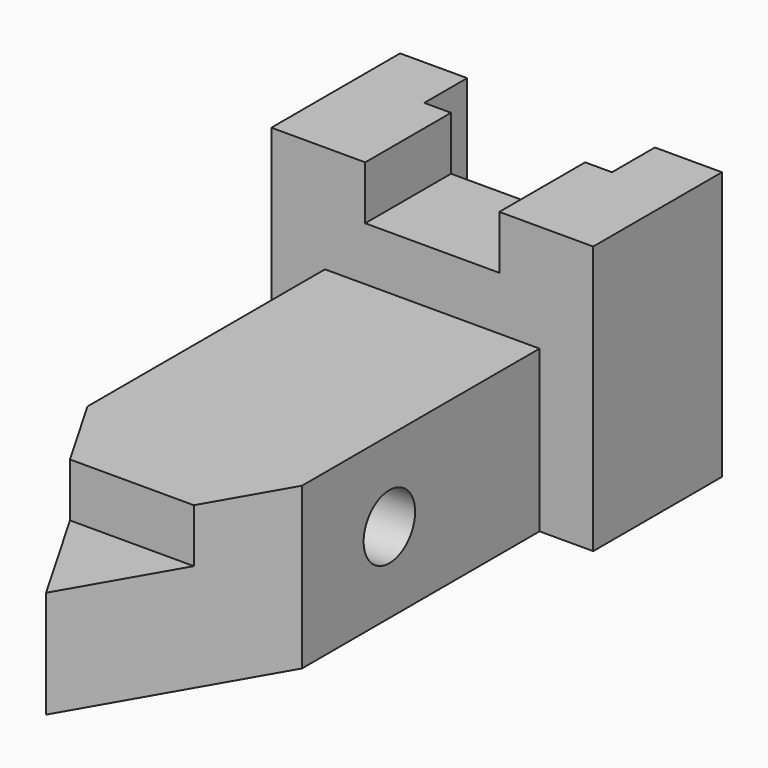
from build123d import *

# Parameters (mm, degrees)
SKETCH_W        = 60
SKETCH_H        = 50
PAD_DEPTH       = 30
SKETCH001_W     = 40
SKETCH001_H     = 30
PAD001_DEPTH    = 90
SKETCH002_W     = 35
SKETCH002_H     = 10
POCKET_DEPTH    = 50.001
SKETCH003_W     = 25
SKETCH003_H     = 26.623343
POCKET001_DEPTH = 10
SKETCH004_R     = 6
POCKET002_DEPTH = 50.001
POCKET003_DEPTH = 30.001
SKETCH006_W     = 62.083085
SKETCH006_H     = 25.997551
POCKET004_DEPTH = 10


with BuildPart() as part:
    # Sketch → Pad (new body)
    with BuildSketch(Plane.XZ):
        with Locations((0, 25)):
            Rectangle(SKETCH_W, SKETCH_H)
    extrude(amount=PAD_DEPTH)

    # Sketch001 → Pad001 (new body)
    with BuildSketch(Plane.XZ.offset(30)):
        with Locations((0, 15)):
            Rectangle(SKETCH001_W, SKETCH001_H)
    extrude(amount=PAD001_DEPTH)

    # Sketch002 → Pocket (cut, through all)
    with BuildSketch(Plane(origin=(0, 0, 50), x_dir=(-1, 0, 0), z_dir=(0, 0, 1))):
        with Locations((0, 5)):
            Rectangle(SKETCH002_W, SKETCH002_H)
    extrude(amount=-POCKET_DEPTH, mode=Mode.SUBTRACT)

    # Sketch003 → Pocket001 (cut)
    with BuildSketch(Plane(origin=(0, 0, 50), x_dir=(-1, 0, 0), z_dir=(0, 0, 1))):
        with Locations((0, 16.688329)):
            Rectangle(SKETCH003_W, SKETCH003_H)
    extrude(amount=-POCKET001_DEPTH, mode=Mode.SUBTRACT)

    # Sketch004 → Pocket002 (cut, through all)
    with BuildSketch(Plane(origin=(20, 0, 0), x_dir=(0, 0, 1), z_dir=(1, 0, 0))):
        with Locations((15, 65)):
            Circle(SKETCH004_R)
    extrude(amount=-POCKET002_DEPTH, mode=Mode.SUBTRACT)

    # Sketch005 → Pocket003 (cut, through all)
    with BuildSketch(Plane(origin=(0, 0, 30), x_dir=(-1, 0, 0), z_dir=(0, 0, 1))):
        Polygon((0, 120), (-25, 76.69873), (-25, 127.885117), (25, 127.885117), (25, 76.69873), align=None)
    extrude(amount=-POCKET003_DEPTH, mode=Mode.SUBTRACT)

    # Sketch006 → Pocket004 (cut)
    with BuildSketch(Plane(origin=(0, 0, 30), x_dir=(-1, 0, 0), z_dir=(0, 0, 1))):
        with Locations((1.302299, 112.998775)):
            Rectangle(SKETCH006_W, SKETCH006_H)
    extrude(amount=-POCKET004_DEPTH, mode=Mode.SUBTRACT)


solid = part.part
